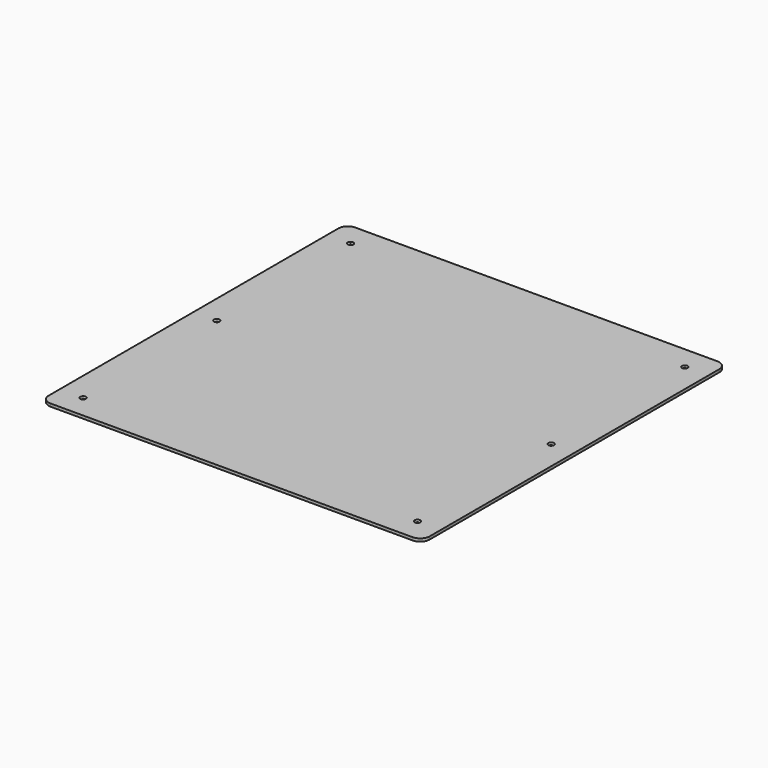
from build123d import *

# Parameters (mm, degrees)
SKETCH_W     = 400
SKETCH_H     = 400
SKETCH_R     = 1.5
PAD_DEPTH    = 3
FILLET_R     = 10
CHAMFER_SIZE = 1.5


with BuildPart() as part:
    # Sketch → Pad (new body)
    with BuildSketch(Plane.XY):
        with Locations((200, 200)):
            Rectangle(SKETCH_W, SKETCH_H)
        with Locations((24.5, 375.5)):
            Circle(SKETCH_R, mode=Mode.SUBTRACT)
        with Locations((24.5, 24.5)):
            Circle(SKETCH_R, mode=Mode.SUBTRACT)
        with Locations((375.5, 24.5)):
            Circle(SKETCH_R, mode=Mode.SUBTRACT)
        with Locations((375.5, 375.5)):
            Circle(SKETCH_R, mode=Mode.SUBTRACT)
        with Locations((24.5, 200)):
            Circle(SKETCH_R, mode=Mode.SUBTRACT)
        with Locations((375.5, 200)):
            Circle(SKETCH_R, mode=Mode.SUBTRACT)
    extrude(amount=PAD_DEPTH)

    # Fillet
    fillet_edges = [part.edges().sort_by_distance(p)[0] for p in [
        (0, 0, 1.5),
        (400, 0, 1.5),
        (400, 400, 1.5),
        (0, 400, 1.5),
    ]]
    fillet(fillet_edges, radius=FILLET_R)

    # Chamfer
    chamfer_edges = [part.edges().sort_by_distance(p)[0] for p in [
        (23, 375.5, 3),
        (23, 200, 3),
        (374, 200, 3),
        (374, 375.5, 3),
        (374, 24.5, 3),
        (23, 24.5, 3),
    ]]
    chamfer(chamfer_edges, length=CHAMFER_SIZE)


solid = part.part
